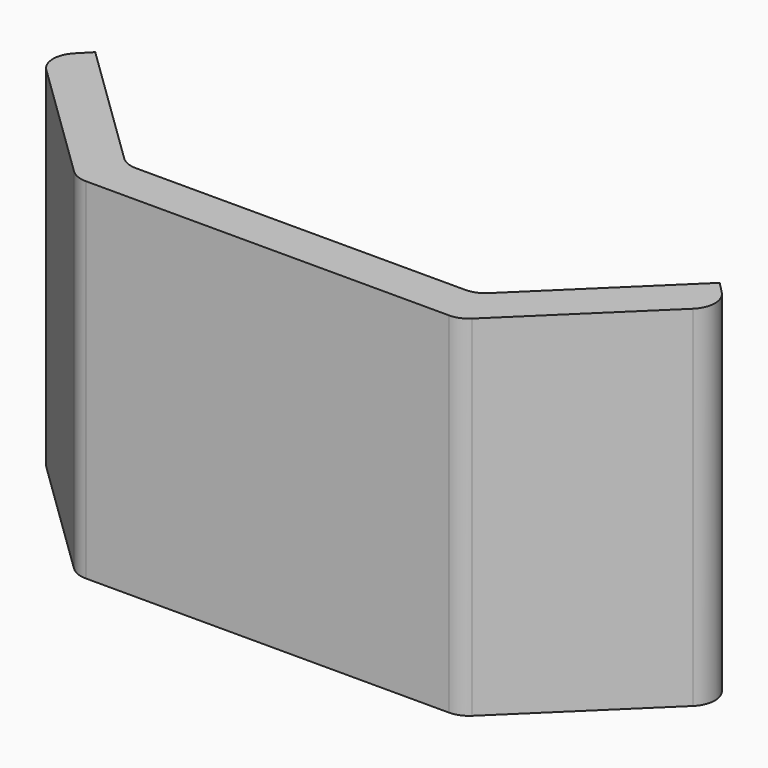
from build123d import *

# Parameters (mm, degrees)
F1_DEPTH = 21
F2_R     = 1.5


with BuildPart() as f1:
    # F0 (on Top) → F1 (new body)
    with BuildSketch(Plane.XY):
        Polygon((10.5, 0), (0, 0), (-10.5, 0), (-18.75, 8.01171), (-20.491676, 6.218232), (-11.514141, -2.5), (0, -2.5), (11.514141, -2.5), (20.491676, 6.218232), (18.75, 8.01171), align=None)
    extrude(amount=F1_DEPTH)

    # F2
    f2_edges = [f1.edges().sort_by_distance(p)[0] for p in [
        (-10.5, 0, 10.5),
        (10.5, 0, 10.5),
        (-11.514141, -2.5, 10.5),
        (11.514141, -2.5, 10.5),
        (-20.491676, 6.218232, 10.5),
        (20.491676, 6.218232, 10.5),
    ]]
    fillet(f2_edges, radius=F2_R)


solid = f1.part
